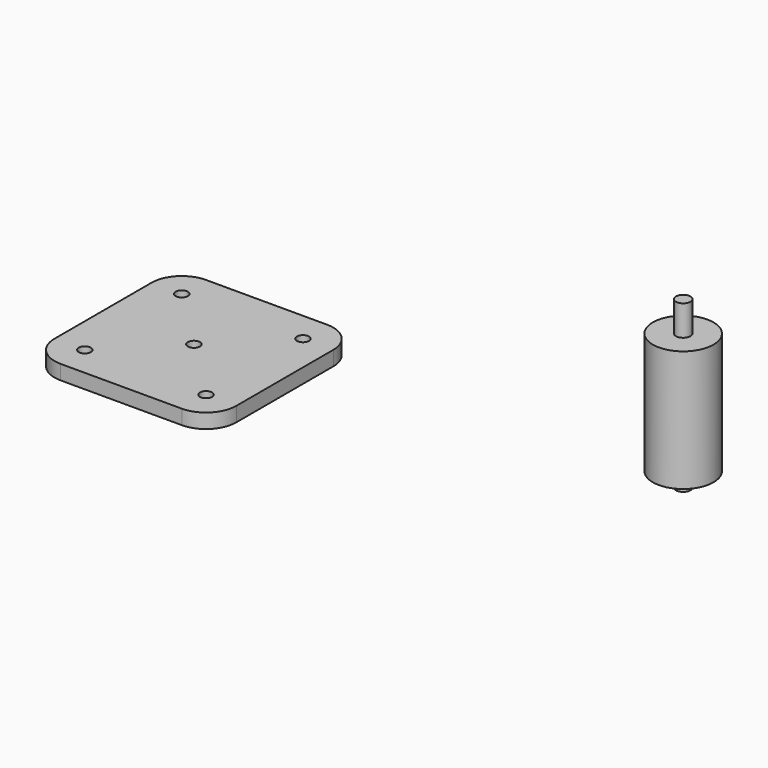
from build123d import *

# Parameters (mm, degrees)
F0_R     = 1.27
F1_DEPTH = 3.048
F2_R     = 1.524
F3_DEPTH = 6.35
F2_R_2   = 6.35
F4_DEPTH = 25.4
F5_DEPTH = 34.798


with BuildPart() as f1:
    # F0 (on Top) → F1 (new body)
    with BuildSketch(Plane.XY):
        with BuildLine():
            Line((-20.5126005113, -14.2226074874), (-45.9126005113, -14.2226074874))
            ThreePointArc((-45.9126005113, -14.2226074874), (-50.4027285718, -16.0824794269), (-52.2626005113, -20.5726074874))
            Line((-52.2626005113, -20.5726074874), (-52.2626005113, -45.9726074874))
            ThreePointArc((-52.2626005113, -45.9726074874), (-50.4027285718, -50.462735548), (-45.9126005113, -52.3226074874))
            Line((-45.9126005113, -52.3226074874), (-20.5126005113, -52.3226074874))
            ThreePointArc((-20.5126005113, -52.3226074874), (-16.0224724508, -50.462735548), (-14.1626005113, -45.9726074874))
            Line((-14.1626005113, -45.9726074874), (-14.1626005113, -20.5726074874))
            ThreePointArc((-14.1626005113, -20.5726074874), (-16.0224724508, -16.0824794269), (-20.5126005113, -14.2226074874))
        make_face()
        with Locations((-45.9126005113, -45.9726074874)):
            Circle(F0_R, mode=Mode.SUBTRACT)
        with Locations((-33.2126005113, -33.2726074874)):
            Circle(F0_R, mode=Mode.SUBTRACT)
        with Locations((-20.5126005113, -45.9726074874)):
            Circle(F0_R, mode=Mode.SUBTRACT)
        with Locations((-45.9126005113, -20.5726074874)):
            Circle(F0_R, mode=Mode.SUBTRACT)
        with Locations((-20.5126005113, -20.5726074874)):
            Circle(F0_R, mode=Mode.SUBTRACT)
    extrude(amount=F1_DEPTH)


with BuildPart() as f3:
    # F2 (on Top) → F3 (new body)
    with BuildSketch(Plane.XY):
        with Locations((23.2728645205, 24.313762784)):
            Circle(F2_R)
    extrude(amount=F3_DEPTH)

    # F2 (on Top) → F4 (join)
    with BuildSketch(Plane.XY):
        with Locations((23.2728645205, 24.313762784)):
            Circle(F2_R_2)
        with Locations((23.2728645205, 24.313762784)):
            Circle(F2_R, mode=Mode.SUBTRACT)
    extrude(amount=-F4_DEPTH)


with BuildPart() as f5:
    # F5 (new): a face of the model
    f5_faces = [f3.part.faces().sort_by_distance(p)[0] for p in [
        (23.2728645205, 24.313762784, 6.35),
    ]]
    extrude(f5_faces, amount=-F5_DEPTH)


solid = Compound([f1.part, f3.part, f5.part])
